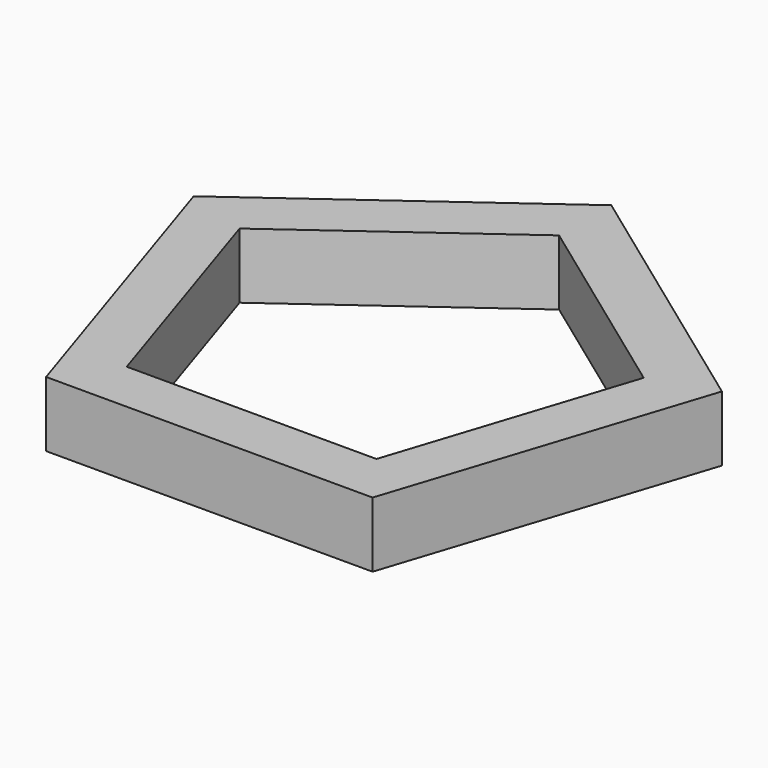
from build123d import *

# Parameters (mm, degrees)
F1_DEPTH = 5.08


with BuildPart() as f1:
    # F0 (on Top) → F1 (new body)
    with BuildSketch(Plane.XY):
        Polygon((12.7, 39.086581), (-7.849032, 24.156836), (-3.017665, 22.587029), (12.7, 34.006581), align=None)
        Polygon((-7.849032, 24.156836), (0, 0), (2.985949, 4.109806), (-3.017665, 22.587029), align=None)
        Polygon((2.985949, 4.109806), (0, 0), (25.4, 0), (22.414051, 4.109806), align=None)
        Polygon((22.414051, 4.109806), (25.4, 0), (33.249032, 24.156836), (28.417665, 22.587029), align=None)
        Polygon((28.417665, 22.587029), (33.249032, 24.156836), (12.7, 39.086581), (12.7, 34.006581), align=None)
    extrude(amount=F1_DEPTH)


solid = f1.part
